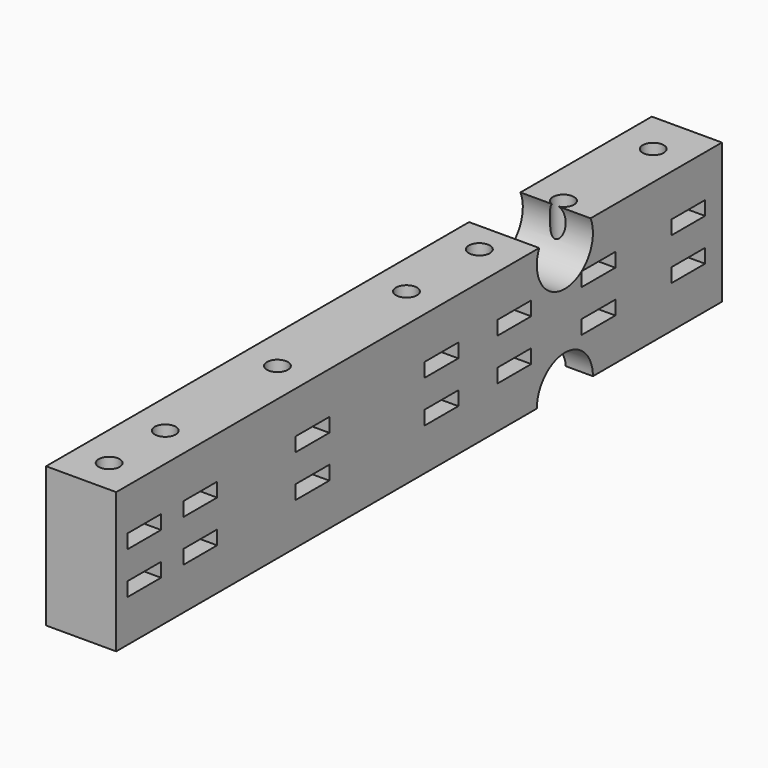
from build123d import *

# Parameters (mm, degrees)
BOX183_W          = 16
BOX183_H          = 6
BOX183_DEPTH      = 2
BOX184_W          = 16
BOX184_H          = 6
BOX184_DEPTH      = 2
BOX185_W          = 16
BOX185_H          = 6
BOX185_DEPTH      = 2
BOX186_W          = 16
BOX186_H          = 6
BOX186_DEPTH      = 2
BOX187_W          = 16
BOX187_H          = 6
BOX187_DEPTH      = 2
BOX188_W          = 16
BOX188_H          = 6
BOX188_DEPTH      = 2
BOX189_W          = 16
BOX189_H          = 6
BOX189_DEPTH      = 2
BOX190_W          = 16
BOX190_H          = 6
BOX190_DEPTH      = 2
BOX191_W          = 16
BOX191_H          = 6
BOX191_DEPTH      = 2
BOX192_W          = 16
BOX192_H          = 6
BOX192_DEPTH      = 2
BOX193_W          = 16
BOX193_H          = 6
BOX193_DEPTH      = 2
BOX194_W          = 16
BOX194_H          = 6
BOX194_DEPTH      = 2
BOX195_W          = 16
BOX195_H          = 6
BOX195_DEPTH      = 2
BOX182_W          = 16
BOX182_H          = 6
BOX182_DEPTH      = 2
CYLINDER440_R     = 1.5
CYLINDER440_DEPTH = 50
CYLINDER441_R     = 1.5
CYLINDER441_DEPTH = 50
CYLINDER442_R     = 1.5
CYLINDER442_DEPTH = 50
CYLINDER443_R     = 1.5
CYLINDER443_DEPTH = 50
CYLINDER444_R     = 1.5
CYLINDER444_DEPTH = 50
CYLINDER445_R     = 1.5
CYLINDER445_DEPTH = 50
CYLINDER439_R     = 1.5
CYLINDER439_DEPTH = 50
CYLINDER432_R     = 5
CYLINDER432_DEPTH = 100
CYLINDER433_R     = 5
CYLINDER433_DEPTH = 100
CYLINDER434_R     = 5
CYLINDER434_DEPTH = 100
CYLINDER435_R     = 5
CYLINDER435_DEPTH = 100
CYLINDER436_R     = 5
CYLINDER436_DEPTH = 100
CYLINDER437_R     = 5
CYLINDER437_DEPTH = 100
CYLINDER438_R     = 5
CYLINDER438_DEPTH = 100
CYLINDER431_R     = 5
CYLINDER431_DEPTH = 100
BOX181_W          = 10
BOX181_H          = 108
BOX181_DEPTH      = 20


with BuildPart() as krychle183:
    # Box183 → Box183 (new body)
    with BuildSketch(Plane(origin=(60, 2, 16), x_dir=(1, 0, 0), z_dir=(0, 0, 1))):
        with Locations((8, 3)):
            Rectangle(BOX183_W, BOX183_H)
    extrude(amount=BOX183_DEPTH)


with BuildPart() as krychle184:
    # Box184 → Box184 (new body)
    with BuildSketch(Plane(origin=(60, -21, 10), x_dir=(1, 0, 0), z_dir=(0, 0, 1))):
        with Locations((8, 3)):
            Rectangle(BOX184_W, BOX184_H)
    extrude(amount=BOX184_DEPTH)


with BuildPart() as krychle185:
    # Box185 → Box185 (new body)
    with BuildSketch(Plane(origin=(60, -21, 16), x_dir=(1, 0, 0), z_dir=(0, 0, 1))):
        with Locations((8, 3)):
            Rectangle(BOX185_W, BOX185_H)
    extrude(amount=BOX185_DEPTH)


with BuildPart() as krychle186:
    # Box186 → Box186 (new body)
    with BuildSketch(Plane(origin=(60, -41, 10), x_dir=(1, 0, 0), z_dir=(0, 0, 1))):
        with Locations((8, 3)):
            Rectangle(BOX186_W, BOX186_H)
    extrude(amount=BOX186_DEPTH)


with BuildPart() as krychle187:
    # Box187 → Box187 (new body)
    with BuildSketch(Plane(origin=(60, -41, 16), x_dir=(1, 0, 0), z_dir=(0, 0, 1))):
        with Locations((8, 3)):
            Rectangle(BOX187_W, BOX187_H)
    extrude(amount=BOX187_DEPTH)


with BuildPart() as krychle188:
    # Box188 → Box188 (new body)
    with BuildSketch(Plane(origin=(60, -51, 10), x_dir=(1, 0, 0), z_dir=(0, 0, 1))):
        with Locations((8, 3)):
            Rectangle(BOX188_W, BOX188_H)
    extrude(amount=BOX188_DEPTH)


with BuildPart() as krychle189:
    # Box189 → Box189 (new body)
    with BuildSketch(Plane(origin=(60, -51, 16), x_dir=(1, 0, 0), z_dir=(0, 0, 1))):
        with Locations((8, 3)):
            Rectangle(BOX189_W, BOX189_H)
    extrude(amount=BOX189_DEPTH)


with BuildPart() as krychle190:
    # Box190 → Box190 (new body)
    with BuildSketch(Plane(origin=(60, 15, 10), x_dir=(1, 0, 0), z_dir=(0, 0, 1))):
        with Locations((8, 3)):
            Rectangle(BOX190_W, BOX190_H)
    extrude(amount=BOX190_DEPTH)


with BuildPart() as krychle191:
    # Box191 → Box191 (new body)
    with BuildSketch(Plane(origin=(60, 30, 10), x_dir=(1, 0, 0), z_dir=(0, 0, 1))):
        with Locations((8, 3)):
            Rectangle(BOX191_W, BOX191_H)
    extrude(amount=BOX191_DEPTH)


with BuildPart() as krychle192:
    # Box192 → Box192 (new body)
    with BuildSketch(Plane(origin=(60, 46, 10), x_dir=(1, 0, 0), z_dir=(0, 0, 1))):
        with Locations((8, 3)):
            Rectangle(BOX192_W, BOX192_H)
    extrude(amount=BOX192_DEPTH)


with BuildPart() as krychle193:
    # Box193 → Box193 (new body)
    with BuildSketch(Plane(origin=(60, 15, 16), x_dir=(1, 0, 0), z_dir=(0, 0, 1))):
        with Locations((8, 3)):
            Rectangle(BOX193_W, BOX193_H)
    extrude(amount=BOX193_DEPTH)


with BuildPart() as krychle194:
    # Box194 → Box194 (new body)
    with BuildSketch(Plane(origin=(60, 30, 16), x_dir=(1, 0, 0), z_dir=(0, 0, 1))):
        with Locations((8, 3)):
            Rectangle(BOX194_W, BOX194_H)
    extrude(amount=BOX194_DEPTH)


with BuildPart() as krychle195:
    # Box195 → Box195 (new body)
    with BuildSketch(Plane(origin=(60, 46, 16), x_dir=(1, 0, 0), z_dir=(0, 0, 1))):
        with Locations((8, 3)):
            Rectangle(BOX195_W, BOX195_H)
    extrude(amount=BOX195_DEPTH)


with BuildPart() as compound585:
    # Box182 → Box182 (new body)
    with BuildSketch(Plane(origin=(60, 2, 10), x_dir=(1, 0, 0), z_dir=(0, 0, 1))):
        with Locations((8, 3)):
            Rectangle(BOX182_W, BOX182_H)
    extrude(amount=BOX182_DEPTH)

    # Compound585: union Krychle183, Krychle184, Krychle185, Krychle186, Krychle187, Krychle188, Krychle189, Krychle190, Krychle191, Krychle192, Krychle193, Krychle194, Krychle195
    add(krychle183.part)
    add(krychle184.part)
    add(krychle185.part)
    add(krychle186.part)
    add(krychle187.part)
    add(krychle188.part)
    add(krychle189.part)
    add(krychle190.part)
    add(krychle191.part)
    add(krychle192.part)
    add(krychle193.part)
    add(krychle194.part)
    add(krychle195.part)


with BuildPart() as compound585_1:
    # Compound585 placement: moved
    add(compound585.part.moved(Location((39, 24, 3))))


with BuildPart() as obj1:
    # Cylinder440 → Cylinder440 (new body)
    with BuildSketch(Plane(origin=(63, -18, -12), x_dir=(1, 0, 0), z_dir=(0, 0, 1))):
        Circle(CYLINDER440_R)
    extrude(amount=CYLINDER440_DEPTH)


with BuildPart() as obj2:
    # Cylinder441 → Cylinder441 (new body)
    with BuildSketch(Plane(origin=(63, -38, -12), x_dir=(1, 0, 0), z_dir=(0, 0, 1))):
        Circle(CYLINDER441_R)
    extrude(amount=CYLINDER441_DEPTH)


with BuildPart() as obj3:
    # Cylinder442 → Cylinder442 (new body)
    with BuildSketch(Plane(origin=(63, -48, -12), x_dir=(1, 0, 0), z_dir=(0, 0, 1))):
        Circle(CYLINDER442_R)
    extrude(amount=CYLINDER442_DEPTH)


with BuildPart() as obj4:
    # Cylinder443 → Cylinder443 (new body)
    with BuildSketch(Plane(origin=(63, 18, -12), x_dir=(1, 0, 0), z_dir=(0, 0, 1))):
        Circle(CYLINDER443_R)
    extrude(amount=CYLINDER443_DEPTH)


with BuildPart() as obj5:
    # Cylinder444 → Cylinder444 (new body)
    with BuildSketch(Plane(origin=(63, 33, -12), x_dir=(1, 0, 0), z_dir=(0, 0, 1))):
        Circle(CYLINDER444_R)
    extrude(amount=CYLINDER444_DEPTH)


with BuildPart() as obj6:
    # Cylinder445 → Cylinder445 (new body)
    with BuildSketch(Plane(origin=(63, 49, -12), x_dir=(1, 0, 0), z_dir=(0, 0, 1))):
        Circle(CYLINDER445_R)
    extrude(amount=CYLINDER445_DEPTH)


with BuildPart() as compound590:
    # Cylinder439 → Cylinder439 (new body)
    with BuildSketch(Plane(origin=(63, 5, -12), x_dir=(1, 0, 0), z_dir=(0, 0, 1))):
        Circle(CYLINDER439_R)
    extrude(amount=CYLINDER439_DEPTH)

    # Compound590: union obj1, obj2, obj3, obj4, obj5, obj6
    add(obj1.part)
    add(obj2.part)
    add(obj3.part)
    add(obj4.part)
    add(obj5.part)
    add(obj6.part)


with BuildPart() as compound590_1:
    # Compound590 placement: moved
    add(compound590.part.moved(Location((39, 24, 0))))


with BuildPart() as obj7:
    # Cylinder432 → Cylinder432 (new body)
    with BuildSketch(Plane(origin=(24, -51, 25), x_dir=(0, 0, -1), z_dir=(1, 0, 0))):
        Circle(CYLINDER432_R)
    extrude(amount=CYLINDER432_DEPTH)


with BuildPart() as obj8:
    # Cylinder433 → Cylinder433 (new body)
    with BuildSketch(Plane(origin=(24, 36, 34), x_dir=(0, 0, -1), z_dir=(1, 0, 0))):
        Circle(CYLINDER433_R)
    extrude(amount=CYLINDER433_DEPTH)


with BuildPart() as obj9:
    # Cylinder434 → Cylinder434 (new body)
    with BuildSketch(Plane(origin=(24, -36, 34), x_dir=(0, 0, -1), z_dir=(1, 0, 0))):
        Circle(CYLINDER434_R)
    extrude(amount=CYLINDER434_DEPTH)


with BuildPart() as obj10:
    # Cylinder435 → Cylinder435 (new body)
    with BuildSketch(Plane(origin=(24, -23, -5), x_dir=(0, 0, -1), z_dir=(1, 0, 0))):
        Circle(CYLINDER435_R)
    extrude(amount=CYLINDER435_DEPTH)


with BuildPart() as obj11:
    # Cylinder436 → Cylinder436 (new body)
    with BuildSketch(Plane(origin=(24, 51, 7), x_dir=(0, 0, -1), z_dir=(1, 0, 0))):
        Circle(CYLINDER436_R)
    extrude(amount=CYLINDER436_DEPTH)


with BuildPart() as obj12:
    # Cylinder437 → Cylinder437 (new body)
    with BuildSketch(Plane(origin=(24, 23, -5), x_dir=(0, 0, -1), z_dir=(1, 0, 0))):
        Circle(CYLINDER437_R)
    extrude(amount=CYLINDER437_DEPTH)


with BuildPart() as obj13:
    # Cylinder438 → Cylinder438 (new body)
    with BuildSketch(Plane(origin=(24, -51, 7), x_dir=(0, 0, -1), z_dir=(1, 0, 0))):
        Circle(CYLINDER438_R)
    extrude(amount=CYLINDER438_DEPTH)


with BuildPart() as compound589:
    # Cylinder431 → Cylinder431 (new body)
    with BuildSketch(Plane(origin=(24, 51, 25), x_dir=(0, 0, -1), z_dir=(1, 0, 0))):
        Circle(CYLINDER431_R)
    extrude(amount=CYLINDER431_DEPTH)

    # Compound589: union obj7, obj8, obj9, obj10, obj11, obj12, obj13
    add(obj7.part)
    add(obj8.part)
    add(obj9.part)
    add(obj10.part)
    add(obj11.part)
    add(obj12.part)
    add(obj13.part)


with BuildPart() as compound589_1:
    # Compound589 placement: moved
    add(compound589.part.moved(Location((32, 0, 0))))


with BuildPart() as cut365:
    # Box181 → Box181 (new body)
    with BuildSketch(Plane(origin=(97, -29, 7), x_dir=(1, 0, 0), z_dir=(0, 0, 1))):
        with Locations((5, 54)):
            Rectangle(BOX181_W, BOX181_H)
    extrude(amount=BOX181_DEPTH)

    # Cut363: cut Compound589
    add(compound589_1.part, mode=Mode.SUBTRACT)

    # Cut364: cut Compound590
    add(compound590_1.part, mode=Mode.SUBTRACT)

    # Cut365: cut Compound585
    add(compound585_1.part, mode=Mode.SUBTRACT)


solid = cut365.part
